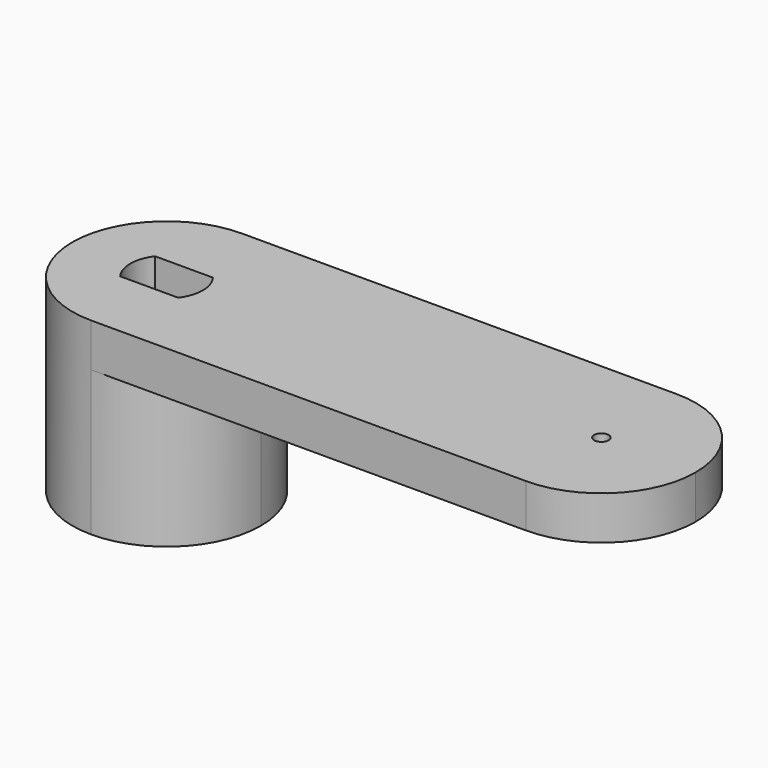
from build123d import *

# Parameters (mm, degrees)
F0_R     = 0.5
F1_DEPTH = 3
F2_DEPTH = 10


with BuildPart() as f1:
    # F0 (on Top) → F1 (new body)
    with BuildSketch(Plane.XY):
        with BuildLine():
            ThreePointArc((0, -6.5), (4.596194, -4.596194), (6.5, 0))
            ThreePointArc((6.5, 0), (4.596194, 4.596194), (0, 6.5))
            ThreePointArc((0, 6.5), (-6.5, 0), (0, -6.5))
        make_face()
        with BuildLine():
            ThreePointArc((2, 1.5), (2.5, 0), (2, -1.5))
            Line((2, -1.5), (-2, -1.5))
            ThreePointArc((-2, -1.5), (-2.5, 0), (-2, 1.5))
            Line((-2, 1.5), (2, 1.5))
        make_face(mode=Mode.SUBTRACT)
        with BuildLine():
            ThreePointArc((0, 6.5), (4.596194, 4.596194), (6.5, 0))
            ThreePointArc((6.5, 0), (4.596194, -4.596194), (0, -6.5))
            Line((0, -6.5), (30, -6.5))
            ThreePointArc((30, -6.5), (23.5, 0), (30, 6.5))
            Line((30, 6.5), (0, 6.5))
        make_face()
        with BuildLine():
            ThreePointArc((36.5, 0), (34.596194, 4.596194), (30, 6.5))
            ThreePointArc((30, 6.5), (23.5, 0), (30, -6.5))
            ThreePointArc((30, -6.5), (34.596194, -4.596194), (36.5, 0))
        make_face()
        with Locations((30, 0)):
            Circle(F0_R, mode=Mode.SUBTRACT)
    extrude(amount=F1_DEPTH)

    # F0 (on Top) → F2 (join)
    with BuildSketch(Plane.XY):
        with BuildLine():
            ThreePointArc((0, -6.5), (4.596194, -4.596194), (6.5, 0))
            ThreePointArc((6.5, 0), (4.596194, 4.596194), (0, 6.5))
            ThreePointArc((0, 6.5), (-6.5, 0), (0, -6.5))
        make_face()
        with BuildLine():
            ThreePointArc((2, 1.5), (2.5, 0), (2, -1.5))
            Line((2, -1.5), (-2, -1.5))
            ThreePointArc((-2, -1.5), (-2.5, 0), (-2, 1.5))
            Line((-2, 1.5), (2, 1.5))
        make_face(mode=Mode.SUBTRACT)
    extrude(amount=-F2_DEPTH)


solid = f1.part
